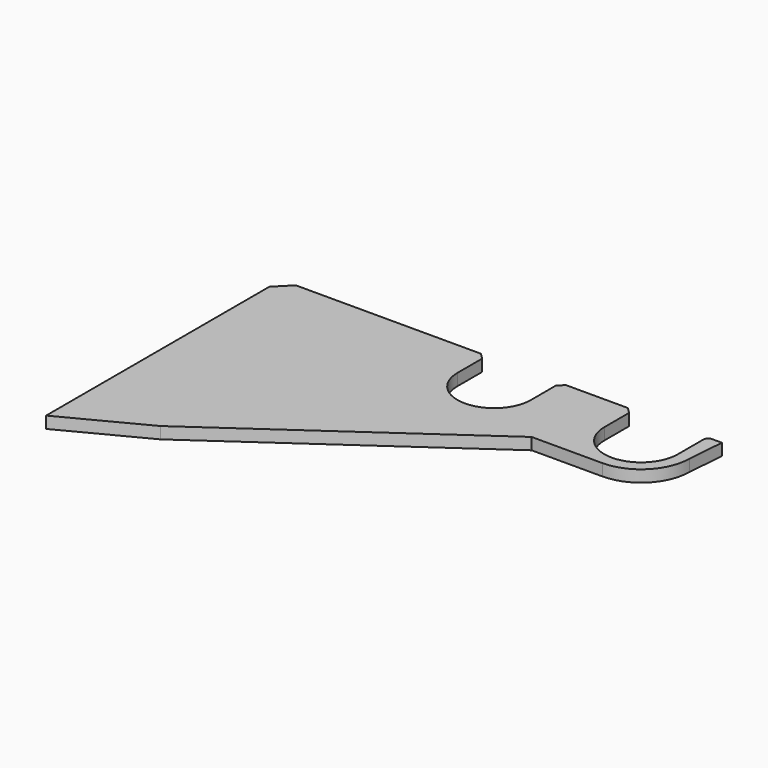
from build123d import *

# Parameters (mm, degrees)
F1_DEPTH = 4


with BuildPart() as f1:
    # F0 (on Top) → F1 (new body)
    with BuildSketch(Plane.XY):
        with BuildLine():
            Line((5, 0), (0, -5))
            Line((0, -5), (0, -100))
            Line((0, -100), (27.486404, -85.706576))
            Line((27.486404, -85.706576), (108.429266, -29))
            Line((108.429266, -29), (132.5, -29))
            ThreePointArc((132.5, -29), (144.167262, -24.167262), (149, -12.5))
            Line((149, -12.5), (150, 0))
            Line((150, 0), (145.965368, 0))
            Line((145.965368, 0), (145, -1.158226))
            Line((145, -1.158226), (145, -3.333333))
            Line((145, -3.333333), (145, -12.5))
            ThreePointArc((145, -12.5), (132.5, -25), (120, -12.5))
            Line((120, -12.5), (120, -2))
            Line((120, -2), (118, 0))
            Line((118, 0), (96.858531, 0))
            Line((96.858531, 0), (95, -2))
            Line((95, -2), (95, -12.5))
            ThreePointArc((95, -12.5), (82.5, -25), (70, -12.5))
            Line((70, -12.5), (70, -2))
            Line((70, -2), (68, 0))
            Line((68, 0), (5, 0))
        make_face()
    extrude(amount=F1_DEPTH)


solid = f1.part
